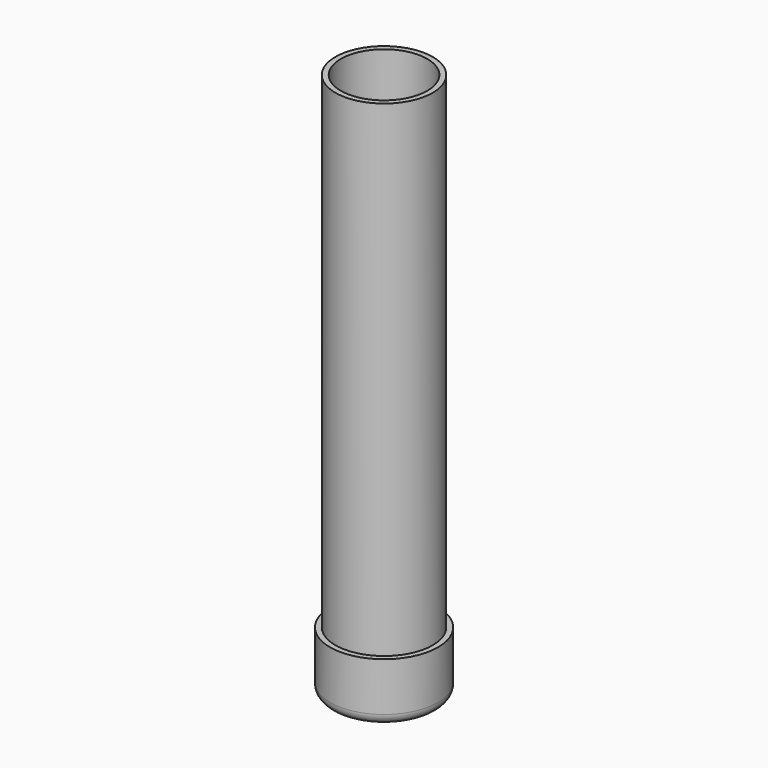
from build123d import *

# Parameters (mm, degrees)
F0_R     = 50
F0_R_2   = 45
F1_DEPTH = 50
F0_R_3   = 40
F2_DEPTH = 500
F3_DEPTH = 5
F4_R     = 10


with BuildPart() as f1:
    # F0 (on Top) → F1 (new body)
    with BuildSketch(Plane.XY):
        Circle(F0_R)
        Circle(F0_R_2, mode=Mode.SUBTRACT)
    extrude(amount=F1_DEPTH)

    # F0 (on Top) → F2 (join)
    with BuildSketch(Plane.XY):
        Circle(F0_R_2)
        Circle(F0_R_3, mode=Mode.SUBTRACT)
    extrude(amount=F2_DEPTH)

    # F0 (on Top) → F3 (join)
    with BuildSketch(Plane.XY):
        Circle(F0_R)
        Circle(F0_R_2, mode=Mode.SUBTRACT)
        Circle(F0_R_2)
        Circle(F0_R_3, mode=Mode.SUBTRACT)
        Circle(F0_R_3)
    extrude(amount=-F3_DEPTH)

    # F4
    f4_edges = [f1.edges().sort_by_distance(p)[0] for p in [
        (-50, 0, -5),
    ]]
    fillet(f4_edges, radius=F4_R)


solid = f1.part
